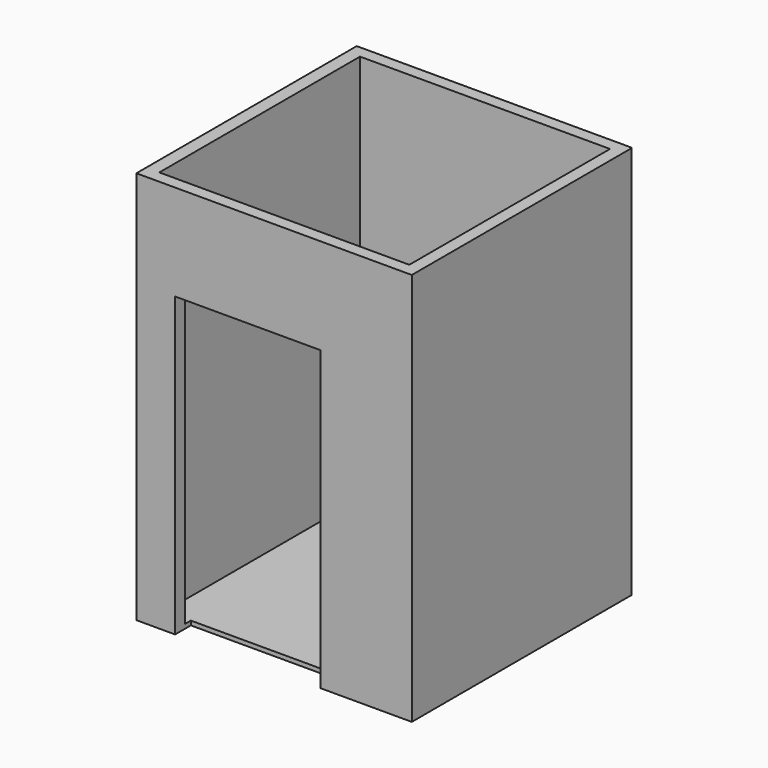
from build123d import *

# Parameters (mm, degrees)
F0_W     = 2133.6
F0_H     = 2133.6
F1_DEPTH = 3048
F2_W     = 1936.75
F2_H     = 1943.1
F3_DEPTH = 2590.8
F4_W     = 1126.8922686577
F4_H     = 4410.2913886309
F5_DEPTH = 152.4
F6_DEPTH = 424.18
F7_R     = 7.62


with BuildPart() as f1:
    # F0 (on Top) → F1 (new body)
    with BuildSketch(Plane.XY):
        Rectangle(F0_W, F0_H)
    extrude(amount=F1_DEPTH)

    # F2 (on face) → F3 (cut)
    with BuildSketch(Plane.XY.offset(3048)):
        with Locations((3.175, 0)):
            Rectangle(F2_W, F2_H)
    extrude(amount=-F3_DEPTH, mode=Mode.SUBTRACT)

    # F4 (on face) → F5 (cut)
    with BuildSketch(Plane.XZ.offset(1066.8)):
        with Locations((-203.3596634865, 100.1044735312)):
            Rectangle(F4_W, F4_H)
    extrude(amount=-F5_DEPTH, mode=Mode.SUBTRACT)

    # F6 (cut): a face of the model
    f6_faces = [f1.faces().sort_by_distance(p)[0] for p in [
        (6.7709971894, 16.4182389166, 457.2),
    ]]
    extrude(f6_faces, amount=-F6_DEPTH, mode=Mode.SUBTRACT)

    # F7
    f7_edges = [f1.edges().sort_by_distance(p)[0] for p in [
        (1066.8, 1066.8, 1524),
    ]]
    fillet(f7_edges, radius=F7_R)


solid = f1.part
